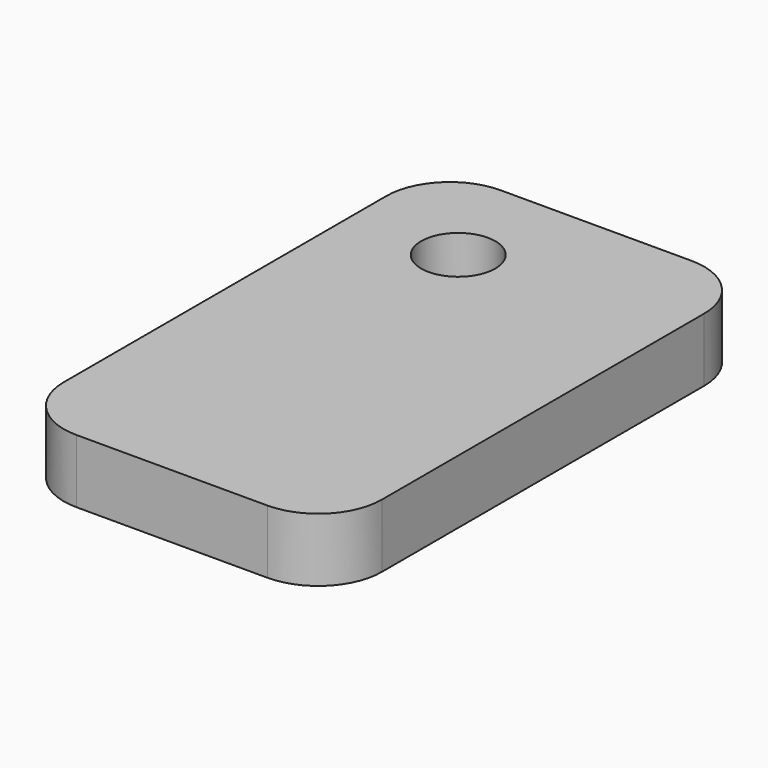
from build123d import *

# Parameters (mm, degrees)
F0_W     = 15
F0_H     = 25
F1_DEPTH = 3
F2_W     = 10
F2_H     = 10
F3_DEPTH = 2
F4_R     = 3
F6_D     = 3.5


with BuildPart() as f1:
    # F0 (on Top) → F1 (new body)
    with BuildSketch(Plane.XY):
        with Locations((7.5, -12.5)):
            Rectangle(F0_W, F0_H)
    extrude(amount=F1_DEPTH)

    # F2 (on face) → F3 (join)
    with BuildSketch(Plane(origin=(0, 0, 0), x_dir=(1, 0, 0), z_dir=(0, 0, -1))):
        with Locations((5, 5)):
            Rectangle(F2_W, F2_H)
    extrude(amount=F3_DEPTH)

    # F4
    f4_edges = [f1.edges().sort_by_distance(p)[0] for p in [
        (0, 0, 0.5),
        (0, -25, 1.5),
        (15, -25, 1.5),
        (15, 0, 1.5),
    ]]
    fillet(f4_edges, radius=F4_R)

    # F6 (through all)
    with Locations(Plane.XY.offset(3)):
        with Locations((5, -5)):
            Hole(F6_D / 2)


solid = f1.part
